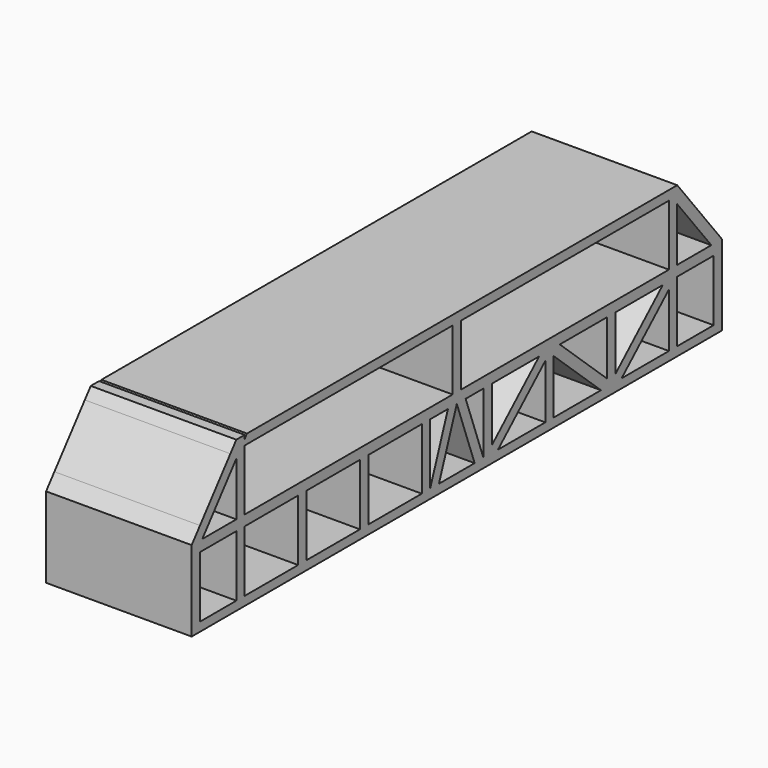
from build123d import *

# Parameters (mm, degrees)
F0_W     = 2.54
F0_H     = 14.9543367669
F0_H_2   = 14.8457030191
F0_H_3   = 2.2837941437
F0_H_4   = 2.54
F0_H_5   = 2.1751603958
F1_DEPTH = 35.56


with BuildPart() as f1:
    # F0 (on Right) → F1 (new body)
    with BuildSketch(Plane.YZ):
        Polygon((64.77, -2.9919569197), (64.77, -1.27), (62.8893853501, -1.27), (48.4378, -14.5023798472), (48.4378, -16.2243367669), (50.3184146499, -16.2243367669), align=None)
        Polygon((2.7034210638, -1.27), (0, -1.27), (5.4499789362, -16.2243367669), (8.1534, -16.2243367669), align=None)
        Polygon((67.31, -16.2243367669), (67.31, -18.3994971628), (80.9498, -18.3994971628), (80.9498, -1.27), (79.7254540732, -1.27), (78.4098, -1.27), (78.4098, -13.9919658527), (78.4098, -16.2243367669), (76.7904573435, -16.2243367669), align=None)
        with Locations((-28.2956, -8.7471683835)):
            Rectangle(F0_W, F0_H)
        Polygon((0, -1.27), (-2.7034210638, -1.27), (-8.1534, -16.2243367669), (-5.4499789362, -16.2243367669), align=None)
        Polygon((78.4098, 4.4598504959), (67.31, 18.3994971628), (67.31, 16.1157030191), (67.31, 14.3219064297), (77.7029141427, 1.27), (78.4098, 1.27), align=None)
        Polygon((-67.31, 14.3219064297), (-67.31, 16.1157030191), (-69.1285294679, 16.1157030191), (-78.4098, 4.4598504959), (-78.4098, 1.27), (-77.7029141427, 1.27), align=None)
        Polygon((45.8978, -14.5023798472), (31.4462146499, -1.27), (29.5656, -1.27), (29.5656, -2.9919569197), (44.0171853501, -16.2243367669), (45.8978, -16.2243367669), align=None)
        Polygon((-1.27, 18.3994971628), (-64.0631141427, 18.3994971628), (-64.77, 17.5117569256), (-64.77, 16.1157030191), (-1.27, 16.1157030191), align=None)
        with Locations((-9.4234, -8.7471683835)):
            Rectangle(F0_W, F0_H)
        with Locations((0, 8.6928515095)):
            Rectangle(F0_W, F0_H_2)
        Polygon((-79.7254540732, -1.27), (-80.9498, -1.27), (-80.9498, -18.3994971628), (-67.31, -18.3994971628), (-67.31, -16.2243367669), (-78.4098, -16.2243367669), (-78.4098, -1.27), align=None)
        with Locations((-47.1678, -8.7471683835)):
            Rectangle(F0_W, F0_H)
        Polygon((-48.4378, -16.2243367669), (-64.77, -16.2243367669), (-64.77, -18.3994971628), (64.77, -18.3994971628), (64.77, -16.2243367669), (50.3184146499, -16.2243367669), (48.4378, -16.2243367669), (45.8978, -16.2243367669), (44.0171853501, -16.2243367669), (29.5656, -16.2243367669), (27.0256, -16.2243367669), (12.5740146499, -16.2243367669), (10.6934, -16.2243367669), (8.1534, -16.2243367669), (5.4499789362, -16.2243367669), (-5.4499789362, -16.2243367669), (-8.1534, -16.2243367669), (-10.6934, -16.2243367669), (-27.0256, -16.2243367669), (-29.5656, -16.2243367669), (-45.8978, -16.2243367669), align=None)
        Polygon((10.6934, -1.27), (8.1534, -1.27), (8.1534, -16.2243367669), (10.6934, -16.2243367669), (10.6934, -14.5023798472), align=None)
        Polygon((48.4378, -14.5023798472), (48.4378, -1.27), (45.8978, -1.27), (45.8978, -14.5023798472), (45.8978, -16.2243367669), (48.4378, -16.2243367669), align=None)
        Polygon((67.31, -1.27), (64.77, -1.27), (64.77, -2.9919569197), (64.77, -16.2243367669), (67.31, -16.2243367669), (67.31, -3.4008444432), align=None)
        Polygon((-65.8816436106, 16.1157030191), (-67.31, 14.3219064297), (-67.31, 1.27), (-64.77, 1.27), (-64.77, 16.1157030191), align=None)
        Polygon((80.9498, 1.27), (78.4098, 4.4598504959), (78.4098, 1.27), align=None)
        Polygon((-78.4098, 1.27), (-78.4098, 4.4598504959), (-80.9498, 1.27), align=None)
        with Locations((-66.04, -8.7471683835)):
            Rectangle(F0_W, F0_H)
        Polygon((29.5656, -2.9919569197), (29.5656, -1.27), (27.0256, -1.27), (27.0256, -2.9919569197), (27.0256, -16.2243367669), (29.5656, -16.2243367669), align=None)
        Polygon((27.0256, -2.9919569197), (27.0256, -1.27), (25.1449853501, -1.27), (10.6934, -14.5023798472), (10.6934, -16.2243367669), (12.5740146499, -16.2243367669), align=None)
        Polygon((67.31, 16.1157030191), (65.8816436106, 16.1157030191), (67.31, 14.3219064297), align=None)
        Polygon((77.7029141427, 1.27), (67.31, 1.27), (67.31, -1.27), (68.8916112423, -1.27), (78.4098, -1.27), (78.4098, 0.3822597628), align=None)
        Polygon((-67.31, -1.27), (-67.31, 1.27), (-77.7029141427, 1.27), (-78.4098, 0.3822597628), (-78.4098, -1.27), align=None)
        with Locations((0, 17.2576000909)):
            Rectangle(F0_W, F0_H_3)
        Polygon((-65.8816436106, 16.1157030191), (-67.31, 16.1157030191), (-67.31, 14.3219064297), align=None)
        with Locations((-66.04, 0)):
            Rectangle(F0_W, F0_H_4)
        with Locations((66.04, -17.3119169648)):
            Rectangle(F0_W, F0_H_5)
        with Locations((66.04, 0)):
            Rectangle(F0_W, F0_H_4)
        with Locations((-66.04, -17.3119169648)):
            Rectangle(F0_W, F0_H_5)
        Polygon((-1.27, 1.27), (-64.77, 1.27), (-64.77, -1.27), (-48.4378, -1.27), (-45.8978, -1.27), (-29.5656, -1.27), (-27.0256, -1.27), (-10.6934, -1.27), (-8.1534, -1.27), (-2.7034210638, -1.27), (0, -1.27), (2.7034210638, -1.27), (8.1534, -1.27), (10.6934, -1.27), (25.1449853501, -1.27), (27.0256, -1.27), (29.5656, -1.27), (31.4462146499, -1.27), (45.8978, -1.27), (48.4378, -1.27), (62.8893853501, -1.27), (64.77, -1.27), (64.77, 1.27), (1.27, 1.27), align=None)
        Polygon((80.9498, 1.27), (78.4098, 1.27), (78.4098, 0.3822597628), (79.7254540732, -1.27), (80.9498, -1.27), align=None)
        Polygon((-64.77, 16.1157030191), (-64.77, 17.5117569256), (-65.8816436106, 16.1157030191), align=None)
        with Locations((66.04, -17.3119169648)):
            Rectangle(F0_W, F0_H_5)
        with Locations((-66.04, -17.3119169648)):
            Rectangle(F0_W, F0_H_5)
        Polygon((79.7254540732, -1.27), (78.4098, 0.3822597628), (78.4098, -1.27), align=None)
        Polygon((-64.77, 18.3994971628), (-67.31, 18.3994971628), (-67.31, 16.1157030191), (-65.8816436106, 16.1157030191), (-64.77, 17.5117569256), align=None)
        Polygon((-78.4098, -1.27), (-78.4098, 0.3822597628), (-79.7254540732, -1.27), align=None)
        Polygon((-78.4098, 0.3822597628), (-77.7029141427, 1.27), (-78.4098, 1.27), align=None)
        Polygon((-67.31, 16.1157030191), (-67.31, 18.3994971628), (-69.1285294679, 16.1157030191), align=None)
        Polygon((64.77, 18.3994971628), (64.0631141427, 18.3994971628), (64.77, 17.5117569256), align=None)
        Polygon((67.31, 18.3994971628), (64.77, 18.3994971628), (64.77, 17.5117569256), (65.8816436106, 16.1157030191), (67.31, 16.1157030191), align=None)
        Polygon((78.4098, 0.3822597628), (78.4098, 1.27), (77.7029141427, 1.27), align=None)
        Polygon((65.8816436106, 16.1157030191), (64.77, 17.5117569256), (64.77, 16.1157030191), align=None)
        Polygon((-78.4098, 0.3822597628), (-78.4098, 1.27), (-80.9498, 1.27), (-80.9498, -1.27), (-79.7254540732, -1.27), align=None)
        Polygon((64.0631141427, 18.3994971628), (1.27, 18.3994971628), (1.27, 16.1157030191), (64.77, 16.1157030191), (64.77, 17.5117569256), align=None)
        Polygon((65.8816436106, 16.1157030191), (64.77, 16.1157030191), (64.77, 1.27), (67.31, 1.27), (67.31, 14.3219064297), align=None)
    extrude(amount=F1_DEPTH)


solid = f1.part
